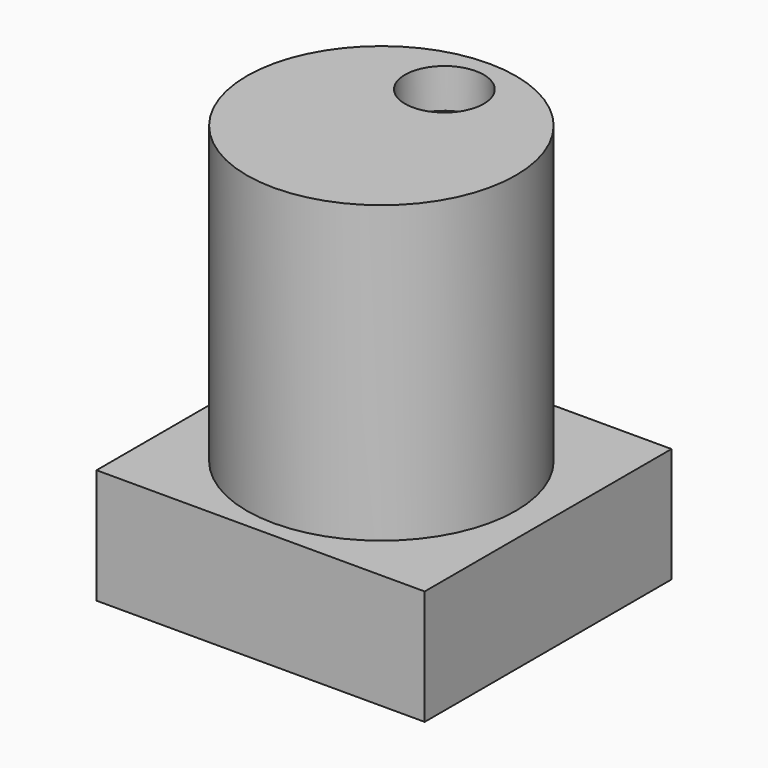
from build123d import *

# Parameters (mm, degrees)
F0_W     = 50
F0_H     = 47
F1_DEPTH = 17.5
F2_R     = 20.5
F3_DEPTH = 45
F4_R     = 18.5
F5_DEPTH = 56.5
F6_R     = 6
F7_DEPTH = 25


with BuildPart() as f1:
    # F0 (on Top) → F1 (new body)
    with BuildSketch(Plane.XY):
        with Locations((25, 23.5)):
            Rectangle(F0_W, F0_H)
    extrude(amount=F1_DEPTH)

    # F2 (on face) → F3 (join)
    with BuildSketch(Plane.XY.offset(17.5)):
        with Locations((25, 23)):
            Circle(F2_R)
        with Locations((25, 23)):
            Circle(F2_R)
    extrude(amount=F3_DEPTH)

    # F4 (on face) → F5 (cut)
    with BuildSketch(Plane(origin=(0, 0, 0), x_dir=(1, 0, 0), z_dir=(0, 0, -1))):
        with Locations((25, -23)):
            Circle(F4_R)
        with Locations((25, -23)):
            Circle(F4_R)
    extrude(amount=-F5_DEPTH, mode=Mode.SUBTRACT)

    # F6 (on face) → F7 (cut)
    with BuildSketch(Plane.XY.offset(62.5)):
        with Locations((25, 35)):
            Circle(F6_R)
        with Locations((25, 35)):
            Circle(F6_R)
    extrude(amount=-F7_DEPTH, mode=Mode.SUBTRACT)


solid = f1.part
